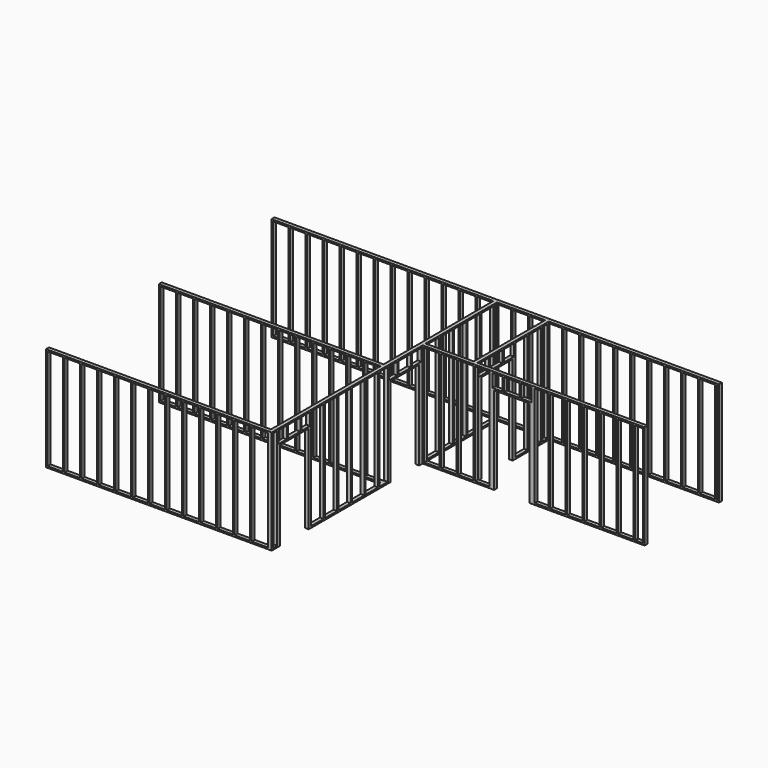
from build123d import *

# Parameters (mm, degrees)
F0_W      = 5302.1992
F0_H      = 88.9
F0_W_2    = 88.9
F0_H_2    = 1066.8
F0_H_3    = 152.4
F0_H_4    = 914.4
F1_DEPTH  = 2487.168
F2_W      = 863.4984
F2_H      = 2120.9
F2_W_2    = 863.6
F2_H_2    = 2082.8
F2_W_3    = 247.7516
F2_H_3    = 290.068
F2_W_4    = 368.1984
F2_W_5    = 247.65
F2_W_6    = 368.3
F2_H_4    = 2410.968
F2_W_7    = 254.4572
F2_W_8    = 247.8024
F2_W_9    = 272.9484
F2_H_5    = 38.1
F2_W_10   = 127
F3_DEPTH  = 88.9
F4_W      = 368.1984
F4_H      = 2410.968
F4_W_2    = 388.5184
F5_DEPTH  = 7620
F6_W      = 368.1984
F6_H      = 2410.968
F6_W_2    = 336.8548
F6_W_3    = 234.8992
F6_H_2    = 315.468
F6_W_4    = 850.9
F6_H_3    = 2095.5
F6_W_5    = 247.8024
F6_W_6    = 38.1
F6_W_7    = 146.2024
F7_DEPTH  = 88.9
F8_W      = 15.24
F8_H      = 2410.968
F8_W_2    = 368.1984
F8_W_3    = 17.78
F9_DEPTH  = 88.9
F10_W     = 368.1984
F10_H     = 2410.968
F10_W_2   = 25.908
F11_DEPTH = 88.9
F13_W     = 368.1984
F13_H     = 2410.968
F13_W_2   = 152.6032
F13_W_3   = 304.8
F13_H_2   = 277.368
F13_W_4   = 304.9016
F13_W_5   = 939.8
F13_H_3   = 2133.6
F14_DEPTH = 88.9


with BuildPart() as f1:
    # F0 (on Top) → F1 (new body)
    with BuildSketch(Plane.XY):
        Polygon((1282.5476, 4022.3948), (5346.6492, 4022.3948), (5346.6492, 4111.2948), (-5346.6492, 4111.2948), (-5346.6492, 4022.3948), (-44.45, 4022.3948), (44.45, 4022.3948), (1193.6476, 4022.3948), align=None)
        Polygon((-5346.6492, -2619.7052), (-5346.6492, -2708.6052), (44.45, -2708.6052), (44.45, 1799.8948), (44.45, 1888.7948), (44.45, 4022.3948), (-44.45, 4022.3948), (-44.45, 745.7948), (-44.45, 656.8948), (-44.45, -2619.7052), align=None)
        Polygon((44.45, 1799.8948), (5346.6492, 1799.8948), (5346.6492, 1888.7948), (1282.5476, 1888.7948), (1193.6476, 1888.7948), (44.45, 1888.7948), align=None)
        with Locations((-2695.5496, 701.3448)):
            Rectangle(F0_W, F0_H)
        with Locations((1238.0976, 3488.9948)):
            Rectangle(F0_W_2, F0_H_2)
        with Locations((1238.0976, 1964.9948)):
            Rectangle(F0_W_2, F0_H_3)
        with Locations((1238.0976, 2498.3948)):
            Rectangle(F0_W_2, F0_H_4)
    extrude(amount=F1_DEPTH)

    # F2 (on face) → F3 (cut)
    with BuildSketch(Plane.YZ.offset(44.45)):
        with Locations((1266.4948, 1060.45)):
            Rectangle(F2_W, F2_H)
        with Locations((-2035.5052, 1079.5)):
            Rectangle(F2_W_2, F2_H_2)
        with Locations((-2381.5294, 2304.034)):
            Rectangle(F2_W_3, F2_H_3)
        with Locations((-2035.4544, 2304.034)):
            Rectangle(F2_W_4, F2_H_3)
        with Locations((-1689.4302, 2304.034)):
            Rectangle(F2_W_5, F2_H_3)
        with Locations((-1343.3552, 1243.584)):
            Rectangle(F2_W_6, F2_H_4)
        with Locations((-937.006, 1243.584)):
            Rectangle(F2_W_4, F2_H_4)
        with Locations((-530.7076, 1243.584)):
            Rectangle(F2_W_4, F2_H_4)
        with Locations((-124.4092, 1243.584)):
            Rectangle(F2_W_4, F2_H_4)
        with Locations((281.8892, 1243.584)):
            Rectangle(F2_W_4, F2_H_4)
        with Locations((631.317, 1243.584)):
            Rectangle(F2_W_7, F2_H_4)
        with Locations((920.5468, 2304.034)):
            Rectangle(F2_W_8, F2_H_3)
        with Locations((1266.6472, 2304.034)):
            Rectangle(F2_W_4, F2_H_3)
        with Locations((1625.3206, 2304.034)):
            Rectangle(F2_W_9, F2_H_3)
        with Locations((-2035.5052, 19.05)):
            Rectangle(F2_W_2, F2_H_5)
        with Locations((-2607.0052, 1243.584)):
            Rectangle(F2_W_10, F2_H_4)
    extrude(amount=-F3_DEPTH, mode=Mode.SUBTRACT)

    # F4 (on face) → F5 (cut)
    with BuildSketch(Plane.XZ.offset(2708.6052)):
        with Locations((-5124.45, 1243.584)):
            Rectangle(F4_W, F4_H)
        with Locations((-4718.1516, 1243.584)):
            Rectangle(F4_W, F4_H)
        with Locations((-4311.8532, 1243.584)):
            Rectangle(F4_W, F4_H)
        with Locations((-3905.5548, 1243.584)):
            Rectangle(F4_W, F4_H)
        with Locations((-3499.2564, 1243.584)):
            Rectangle(F4_W, F4_H)
        with Locations((-3092.958, 1243.584)):
            Rectangle(F4_W, F4_H)
        with Locations((-2686.6596, 1243.584)):
            Rectangle(F4_W, F4_H)
        with Locations((-2280.3612, 1243.584)):
            Rectangle(F4_W, F4_H)
        with Locations((-1874.0628, 1243.584)):
            Rectangle(F4_W, F4_H)
        with Locations((-1467.7644, 1243.584)):
            Rectangle(F4_W, F4_H)
        with Locations((-1061.466, 1243.584)):
            Rectangle(F4_W, F4_H)
        with Locations((-655.1676, 1243.584)):
            Rectangle(F4_W, F4_H)
        with Locations((-238.7092, 1243.584)):
            Rectangle(F4_W_2, F4_H)
    extrude(amount=-F5_DEPTH, mode=Mode.SUBTRACT)

    # F6 (on face) → F7 (cut)
    with BuildSketch(Plane.XZ.offset(-1799.8948)):
        with Locations((266.6492, 1243.584)):
            Rectangle(F6_W, F6_H)
        with Locations((672.9476, 1243.584)):
            Rectangle(F6_W, F6_H)
        with Locations((1079.246, 1243.584)):
            Rectangle(F6_W, F6_H)
        with Locations((1469.8726, 1243.584)):
            Rectangle(F6_W_2, F6_H)
        with Locations((1831.9496, 2291.334)):
            Rectangle(F6_W_3, F6_H_2)
        with Locations((2178.05, 1047.75)):
            Rectangle(F6_W_4, F6_H_3)
        with Locations((2517.6988, 2291.334)):
            Rectangle(F6_W_5, F6_H_2)
        with Locations((2886.2274, 1243.584)):
            Rectangle(F6_W_2, F6_H)
        with Locations((3276.854, 1243.584)):
            Rectangle(F6_W, F6_H)
        with Locations((2171.5984, 2291.334)):
            Rectangle(F6_W, F6_H_2)
        with Locations((3683.1524, 1243.584)):
            Rectangle(F6_W, F6_H)
        with Locations((5289.4992, 1243.584)):
            Rectangle(F6_W_6, F6_H)
        with Locations((4089.4508, 1243.584)):
            Rectangle(F6_W, F6_H)
        with Locations((4495.7492, 1243.584)):
            Rectangle(F6_W, F6_H)
        with Locations((4902.0476, 1243.584)):
            Rectangle(F6_W, F6_H)
        with Locations((5197.348, 1243.584)):
            Rectangle(F6_W_7, F6_H)
    extrude(amount=-F7_DEPTH, mode=Mode.SUBTRACT)

    # F8 (on face) → F9 (cut)
    with BuildSketch(Plane(origin=(0, 4111.2948, 0), x_dir=(-1, 0, 0), z_dir=(0, 1, 0))):
        with Locations((-5300.9292, 1243.584)):
            Rectangle(F8_W, F8_H)
        with Locations((-4258.5132, 1243.584)):
            Rectangle(F8_W_2, F8_H)
        with Locations((-3852.2148, 1243.584)):
            Rectangle(F8_W_2, F8_H)
        with Locations((-3445.9164, 1243.584)):
            Rectangle(F8_W_2, F8_H)
        with Locations((-3039.618, 1243.584)):
            Rectangle(F8_W_2, F8_H)
        with Locations((-2633.3196, 1243.584)):
            Rectangle(F8_W_2, F8_H)
        with Locations((-2227.0212, 1243.584)):
            Rectangle(F8_W_2, F8_H)
        with Locations((-1820.7228, 1243.584)):
            Rectangle(F8_W_2, F8_H)
        with Locations((-1414.4244, 1243.584)):
            Rectangle(F8_W_2, F8_H)
        with Locations((-1008.126, 1243.584)):
            Rectangle(F8_W_2, F8_H)
        with Locations((-601.8276, 1243.584)):
            Rectangle(F8_W_2, F8_H)
        with Locations((-195.5292, 1243.584)):
            Rectangle(F8_W_2, F8_H)
        with Locations((35.56, 1243.584)):
            Rectangle(F8_W_3, F8_H)
        with Locations((-4664.8116, 1243.584)):
            Rectangle(F8_W_2, F8_H)
        with Locations((-5071.11, 1243.584)):
            Rectangle(F8_W_2, F8_H)
    extrude(amount=-F9_DEPTH, mode=Mode.SUBTRACT)

    # F10 (on face) → F11 (cut)
    with BuildSketch(Plane.YZ.offset(44.45)):
        with Locations((2110.994, 1243.584)):
            Rectangle(F10_W, F10_H)
        with Locations((2517.2924, 1243.584)):
            Rectangle(F10_W, F10_H)
        with Locations((2923.5908, 1243.584)):
            Rectangle(F10_W, F10_H)
        with Locations((3329.8892, 1243.584)):
            Rectangle(F10_W, F10_H)
        with Locations((3736.1876, 1243.584)):
            Rectangle(F10_W, F10_H)
        with Locations((3971.3408, 1243.584)):
            Rectangle(F10_W_2, F10_H)
    extrude(amount=-F11_DEPTH, mode=Mode.SUBTRACT)

    # F13 (on face) → F14 (cut)
    with BuildSketch(Plane.YZ.offset(1282.5476)):
        with Locations((3203.194, 1243.584)):
            Rectangle(F13_W, F13_H)
        with Locations((3609.4924, 1243.584)):
            Rectangle(F13_W, F13_H)
        with Locations((3907.9932, 1243.584)):
            Rectangle(F13_W_2, F13_H)
        with Locations((2828.5948, 2310.384)):
            Rectangle(F13_W_3, F13_H_2)
        with Locations((2453.9956, 2310.384)):
            Rectangle(F13_W, F13_H_2)
        with Locations((2079.3456, 2310.384)):
            Rectangle(F13_W_4, F13_H_2)
        with Locations((2472.9948, 1066.8)):
            Rectangle(F13_W_5, F13_H_3)
    extrude(amount=-F14_DEPTH, mode=Mode.SUBTRACT)


solid = f1.part
